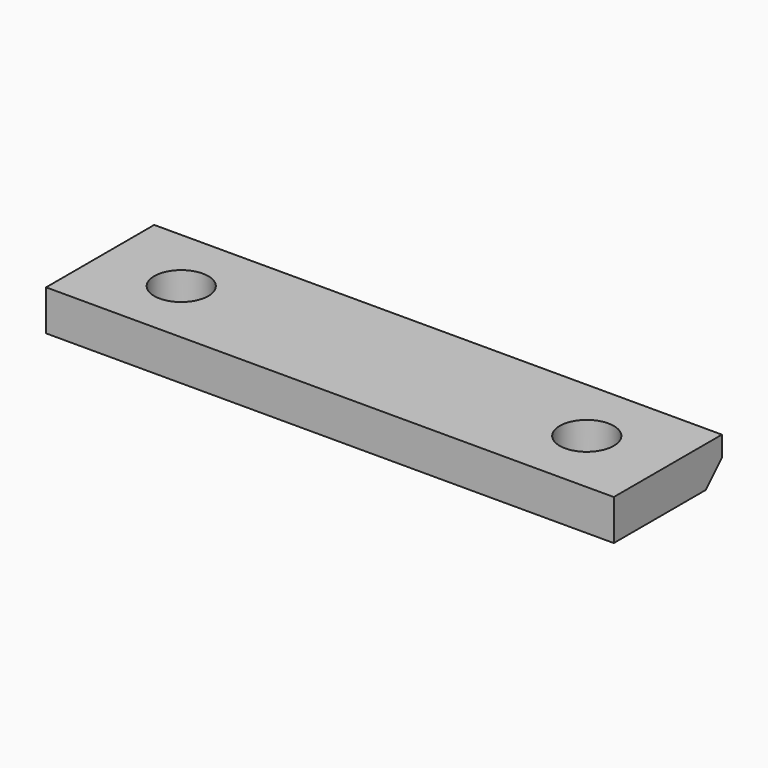
from build123d import *

# Parameters (mm, degrees)
F0_W     = 266.7
F0_H     = 63.5
F0_R     = 12.7
F1_DEPTH = 19.05
F2_SIZE  = 9.525


with BuildPart() as f1:
    # F0 (on Top) → F1 (new body)
    with BuildSketch(Plane.XY):
        Rectangle(F0_W, F0_H)
        with Locations((-95.25, 0)):
            Circle(F0_R, mode=Mode.SUBTRACT)
        with Locations((95.25, 0)):
            Circle(F0_R, mode=Mode.SUBTRACT)
    extrude(amount=F1_DEPTH)

    # F2
    f2_edges = [f1.edges().sort_by_distance(p)[0] for p in [
        (0, 31.75, 0),
    ]]
    chamfer(f2_edges, length=F2_SIZE)


solid = f1.part
